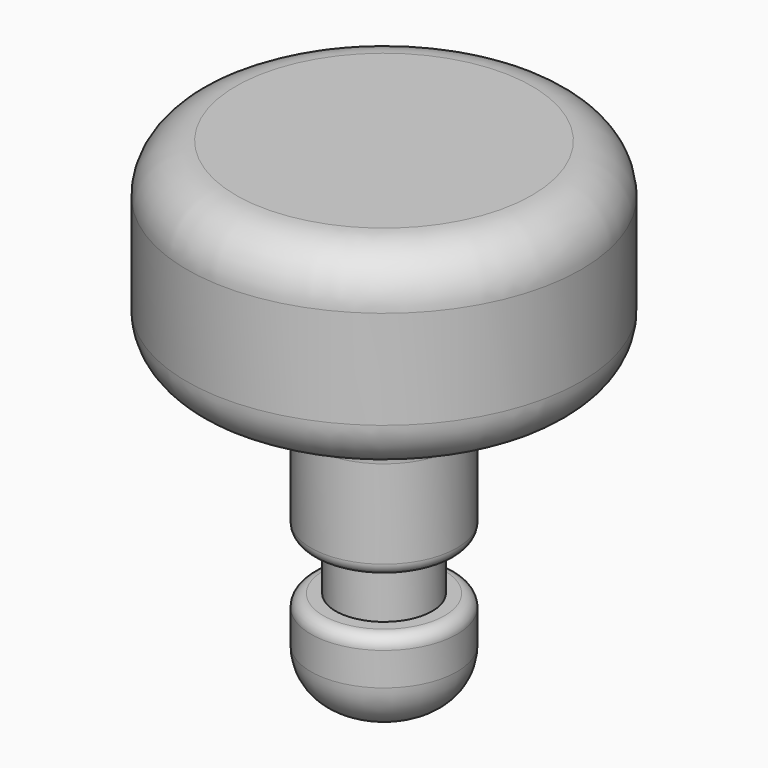
from build123d import *

# Parameters (mm, degrees)
F2_R = 6.35
F3_R = 1.5875


with BuildPart() as f1:
    # F0 (on Front) → F1 (revolve)
    with BuildSketch(Plane.XZ):
        Polygon((25.4, 25.4), (0, 25.4), (0, -38.1), (9.398, -38.1), (9.398, -25.908), (6.223, -25.908), (6.223, -19.304), (9.398, -19.304), (9.398, 0), (25.4, 0), align=None)
    revolve(axis=Axis((0, 0, 0.492247), (0, 0, -1)))

    # F2
    f2_edges = [f1.edges().sort_by_distance(p)[0] for p in [
        (-25.4, 0, 0),
        (-25.4, 0, 25.4),
        (25.4, 0, 12.7),
        (-9.398, 0, -38.1),
        (-9.398, 0, 0),
    ]]
    fillet(f2_edges, radius=F2_R)

    # F3
    f3_edges = [f1.edges().sort_by_distance(p)[0] for p in [
        (-9.398, 0, -19.304),
        (-9.398, 0, -25.908),
    ]]
    fillet(f3_edges, radius=F3_R)


solid = f1.part
